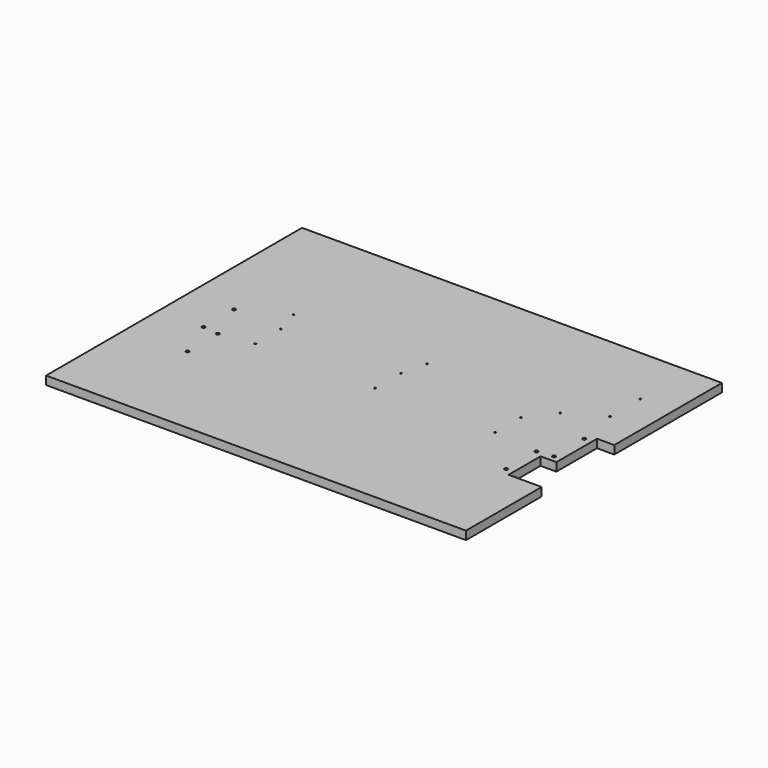
from build123d import *

# Parameters (mm, degrees)
SKETCH_1_W                                   = 1050
SKETCH_1_H                                   = 800
PAD001_DEPTH                                 = 21
SKETCH003_R                                  = 4
SKETCH003_R_2                                = 2
POCKET_DEPTH                                 = 0.001
POCKET_DEPTH_BACK                            = 21.001
POCKET001_DEPTH                              = 0.001
POCKET001_DEPTH_BACK                         = 21.001
PLYWOOD_CUTTING_ROLL_SUPPORT_PLACEMENT_ANGLE = 180


with BuildPart() as part:
    # Sketch_1 → Pad001 (new body)
    with BuildSketch(Plane.XY):
        with Locations((25, -100)):
            Rectangle(SKETCH_1_W, SKETCH_1_H)
    extrude(amount=PAD001_DEPTH)

    # Sketch003 → Pocket (cut, two sides)
    with BuildSketch(Plane.XY) as pocket_sk:
        with Locations((-398.3, -47.5)):
            Circle(SKETCH003_R)
        with Locations((-398.3, 47.5)):
            Circle(SKETCH003_R)
        with Locations((398.3, -47.5)):
            Circle(SKETCH003_R)
        with Locations((398.3, 47.5)):
            Circle(SKETCH003_R)
        with Locations((-437.9, -147.5)):
            Circle(SKETCH003_R)
        with Locations((-437.9, -52.5)):
            Circle(SKETCH003_R)
        with Locations((437.9, -147.5)):
            Circle(SKETCH003_R)
        with Locations((437.9, -52.5)):
            Circle(SKETCH003_R)
        with Locations((15, -140)):
            Circle(SKETCH003_R_2)
        with Locations((15, -60)):
            Circle(SKETCH003_R_2)
        with Locations((315, -60)):
            Circle(SKETCH003_R_2)
        with Locations((315, -140)):
            Circle(SKETCH003_R_2)
        with Locations((-285, -140)):
            Circle(SKETCH003_R_2)
        with Locations((-285, -60)):
            Circle(SKETCH003_R_2)
        with Locations((-418, -252.5)):
            Circle(SKETCH003_R_2)
        with Locations((-418, -347.5)):
            Circle(SKETCH003_R_2)
        with Locations((0, -203)):
            Circle(SKETCH003_R_2)
        with Locations((333.333333, -203)):
            Circle(SKETCH003_R_2)
        with Locations((-333.333333, -203)):
            Circle(SKETCH003_R_2)
    extrude(amount=-POCKET_DEPTH, mode=Mode.SUBTRACT)
    extrude(pocket_sk.sketch, amount=POCKET_DEPTH_BACK, mode=Mode.SUBTRACT)

    # Sketch008 → Pocket001 (cut, two sides)
    with BuildSketch(Plane.XY) as pocket001_sk:
        Polygon((-417.3, 63.5), (-417.3, -36.480682), (-456.873413, -36.480682), (-456.873413, -163.480682), (-754.283264, -163.480682), (-754.283264, 63.5), align=None)
    extrude(amount=-POCKET001_DEPTH, mode=Mode.SUBTRACT)
    extrude(pocket001_sk.sketch, amount=POCKET001_DEPTH_BACK, mode=Mode.SUBTRACT)


with BuildPart() as part_1:
    # plywood_cutting_roll_support placement: moved
    add(part.part.moved(Location((0, 65, 0))).rotate(Axis((0, 65, 0), (0, 0, 1)), PLYWOOD_CUTTING_ROLL_SUPPORT_PLACEMENT_ANGLE))


solid = part_1.part
